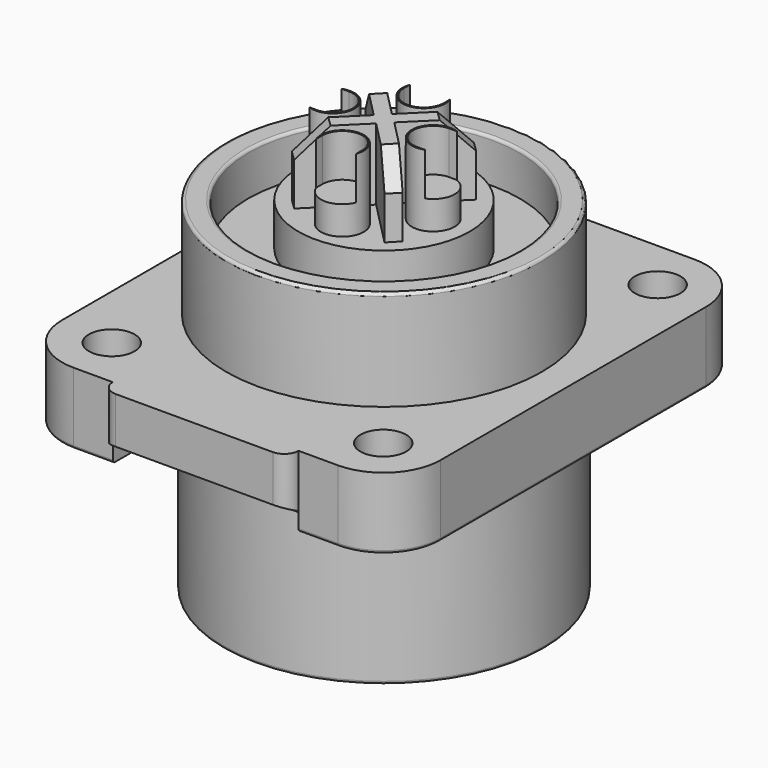
from build123d import *

# Parameters (mm, degrees)
SKETCH_W        = 26.5
SKETCH_H        = 31.2
PAD_DEPTH       = 5
SKETCH001_R     = 1.6
POCKET_DEPTH    = 5
FILLET_R        = 4
SKETCH002_R     = 11.25
PAD001_DEPTH    = 12
SKETCH003_R     = 11.05
PAD002_DEPTH    = 7
CHAMFER_SIZE    = 1
PAD003_DEPTH    = 5
SKETCH005_W     = 13
SKETCH005_H     = 4
POCKET001_DEPTH = 2.5
CHAMFER001_SIZE = 0.68
SKETCH006_R     = 10.25
POCKET002_DEPTH = 1
SKETCH007_R     = 10.25
SKETCH007_R_2   = 7.5
POCKET003_DEPTH = 9
SKETCH008_R     = 1.5
POCKET004_DEPTH = 7
CHAMFER002_SIZE = 0.5
SKETCH009_R     = 1.5
PAD004_DEPTH    = 5
CHAMFER003_SIZE = 2
POCKET005_DEPTH = 3
SKETCH011_R     = 9.5
SKETCH011_R_2   = 6
POCKET006_DEPTH = 3
FILLET001_R     = 0.2


with BuildPart() as part:
    # Sketch → Pad (new body)
    with BuildSketch(Plane.XY):
        with Locations((13.25, 15.6)):
            Rectangle(SKETCH_W, SKETCH_H)
    extrude(amount=PAD_DEPTH)

    # Sketch001 (on Face6 of Pad) → Pocket (cut)
    with BuildSketch(Plane.XY.offset(5)):
        with Locations((3.8, 27.6)):
            Circle(SKETCH001_R)
        with Locations((22.8, 27.6)):
            Circle(SKETCH001_R)
        with Locations((22.8, 3.6)):
            Circle(SKETCH001_R)
        with Locations((3.8, 3.6)):
            Circle(SKETCH001_R)
    extrude(amount=-POCKET_DEPTH, mode=Mode.SUBTRACT)

    # Fillet
    fillet_edges = [part.edges().sort_by_distance(p)[0] for p in [
        (26.5, 31.2, 2.5),
        (26.5, 0, 2.5),
        (0, 31.2, 2.5),
        (0, 0, 2.5),
    ]]
    fillet(fillet_edges, radius=FILLET_R)

    # Sketch002 (on Face2 of Fillet) → Pad001 (join)
    with BuildSketch(Plane(origin=(0, 0, 0), x_dir=(1, 0, 0), z_dir=(0, 0, -1))):
        with Locations((13.25, -15.6)):
            Circle(SKETCH002_R)
    extrude(amount=PAD001_DEPTH)

    # Sketch003 (on Face5 of Pad001) → Pad002 (join)
    with BuildSketch(Plane.XY.offset(5)):
        with Locations((13.25, 15.6)):
            Circle(SKETCH003_R)
    extrude(amount=PAD002_DEPTH)

    # Chamfer
    chamfer_edges = [part.edges().sort_by_distance(p)[0] for p in [
        (21.2, 27.6, 0),
        (2.2, 3.6, 0),
        (21.2, 3.6, 0),
        (2.2, 27.6, 0),
    ]]
    chamfer(chamfer_edges, length=CHAMFER_SIZE)

    # Sketch004 (on Face1 of Chamfer) → Pad003 (join)
    with BuildSketch(Plane(origin=(0, 0, 0), x_dir=(1, 0, 0), z_dir=(0, 0, -1))):
        with BuildLine():
            ThreePointArc((7.75, 1), (6.75, 0), (7.75, -1))
            Line((7.75, -1), (18.75, -1))
            ThreePointArc((18.75, -1), (19.75, 0), (18.75, 1))
            Line((7.75, 1), (18.75, 1))
        make_face()
    extrude(amount=-PAD003_DEPTH)

    # Sketch005 (on Face1 of Pad003) → Pocket001 (cut)
    with BuildSketch(Plane(origin=(0, -1, -1), x_dir=(1, 0, 0), z_dir=(0, -0.422618, -0.906308))):
        with Locations((13.25, 0.48369)):
            Rectangle(SKETCH005_W, SKETCH005_H)
    extrude(amount=-POCKET001_DEPTH, mode=Mode.SUBTRACT)

    # Chamfer001
    chamfer001_edges = [part.edges().sort_by_distance(p)[0] for p in [
        (13.25, 1.139371, 0),
    ]]
    chamfer(chamfer001_edges, length=CHAMFER001_SIZE)

    # Sketch006 (on Face25 of Chamfer001) → Pocket002 (cut)
    with BuildSketch(Plane(origin=(0, 0, -12), x_dir=(1, 0, 0), z_dir=(0, 0, -1))):
        with Locations((13.25, -15.6)):
            Circle(SKETCH006_R)
    extrude(amount=-POCKET002_DEPTH, mode=Mode.SUBTRACT)

    # Sketch007 (on Face35 of Pocket002) → Pocket003 (cut)
    with BuildSketch(Plane(origin=(0, 0, -11), x_dir=(1, 0, 0), z_dir=(0, 0, -1))):
        with Locations((13.25, -15.6)):
            Circle(SKETCH007_R)
        with Locations((13.25, -15.6)):
            Circle(SKETCH007_R_2, mode=Mode.SUBTRACT)
    extrude(amount=-POCKET003_DEPTH, mode=Mode.SUBTRACT)

    # Sketch008 (on Face38 of Pocket003) → Pocket004 (cut)
    with BuildSketch(Plane(origin=(0, 0, -11), x_dir=(1, 0, 0), z_dir=(0, 0, -1))):
        with Locations((13.25, -11.957143)):
            Circle(SKETCH008_R)
        with Locations((16.749271, -15.528571)):
            Circle(SKETCH008_R)
        with Locations((9.750729, -15.528571)):
            Circle(SKETCH008_R)
        with Locations((13.25, -19.1)):
            Circle(SKETCH008_R)
    extrude(amount=-POCKET004_DEPTH, mode=Mode.SUBTRACT)

    # Chamfer002
    chamfer002_edges = [part.edges().sort_by_distance(p)[0] for p in [
        (11.75, 19.1, -11),
        (15.249271, 15.528571, -11),
        (11.75, 11.957143, -11),
        (8.250729, 15.528571, -11),
    ]]
    chamfer(chamfer002_edges, length=CHAMFER002_SIZE)

    # Sketch009 (on Face50 of Chamfer002) → Pad004 (join)
    with BuildSketch(Plane.XY.offset(12)):
        with Locations((9.750995, 15.516533)):
            Circle(SKETCH009_R)
        with Locations((13.244967, 19.093147)):
            Circle(SKETCH009_R)
        with Locations((16.749231, 15.526618)):
            Circle(SKETCH009_R)
        with Locations((13.25526, 11.950004)):
            Circle(SKETCH009_R)
        Polygon((10.080955, 19.515739), (9.388297, 18.794474), (12.543147, 15.585592), (9.334304, 12.430703), (10.05536, 11.737826), (13.264203, 14.892715), (16.418974, 11.683756), (17.111633, 12.405022), (13.956862, 15.613981), (17.165782, 18.768792), (16.444726, 19.461668), (13.235805, 16.306857), align=None)
    extrude(amount=PAD004_DEPTH)

    # Chamfer003
    chamfer003_edges = [part.edges().sort_by_distance(p)[0] for p in [
        (9.734626, 19.155106, 17),
        (16.805254, 19.11523, 17),
        (16.765304, 12.044389, 17),
        (9.694832, 12.084264, 17),
    ]]
    chamfer(chamfer003_edges, length=CHAMFER003_SIZE)

    # Sketch010 (on Face26 of Chamfer003) → Pocket005 (cut)
    with BuildSketch(Plane.XY.offset(17)):
        with BuildLine():
            ThreePointArc((11.844967, 19.093147), (13.244967, 17.693147), (14.644967, 19.093147))
            Line((14.644967, 19.093147), (14.644967, 21.093147))
            ThreePointArc((14.644967, 21.093147), (13.244967, 22.493147), (11.844967, 21.093147))
            Line((11.844967, 19.093147), (11.844967, 21.093147))
        make_face()
        with BuildLine():
            ThreePointArc((16.749231, 16.926618), (15.349231, 15.526618), (16.749231, 14.126618))
            Line((16.749231, 14.126618), (18.749231, 14.126618))
            ThreePointArc((18.749231, 14.126618), (20.149231, 15.526618), (18.749231, 16.926618))
            Line((16.749231, 16.926618), (18.749231, 16.926618))
        make_face()
        with BuildLine():
            ThreePointArc((14.65526, 11.950004), (13.25526, 13.350004), (11.85526, 11.950004))
            Line((11.85526, 11.950004), (11.85526, 9.950004))
            ThreePointArc((11.85526, 9.950004), (13.25526, 8.550004), (14.65526, 9.950004))
            Line((14.65526, 11.950004), (14.65526, 9.950004))
        make_face()
        with BuildLine():
            ThreePointArc((7.750995, 16.916533), (6.350995, 15.516533), (7.750995, 14.116533))
            Line((7.750995, 14.116533), (9.750995, 14.116533))
            ThreePointArc((9.750995, 14.116533), (11.150995, 15.516533), (9.750995, 16.916533))
            Line((7.750995, 16.916533), (9.750995, 16.916533))
        make_face()
    extrude(amount=-POCKET005_DEPTH, mode=Mode.SUBTRACT)

    # Sketch011 (on Face4 of Pocket005) → Pocket006 (cut)
    with BuildSketch(Plane.XY.offset(12)):
        with Locations((13.25, 15.6)):
            Circle(SKETCH011_R)
        with Locations((13.25, 15.6)):
            Circle(SKETCH011_R_2, mode=Mode.SUBTRACT)
    extrude(amount=-POCKET006_DEPTH, mode=Mode.SUBTRACT)

    # Fillet001
    fillet001_edges = [part.edges().sort_by_distance(p)[0] for p in [
        (2, 15.6, -12),
        (3, 15.6, -12),
        (5.75, 15.6, -11),
        (0, 15.6, 0),
        (2.2, 15.6, 12),
        (3.75, 15.6, 12),
    ]]
    fillet(fillet001_edges, radius=FILLET001_R)


solid = part.part
